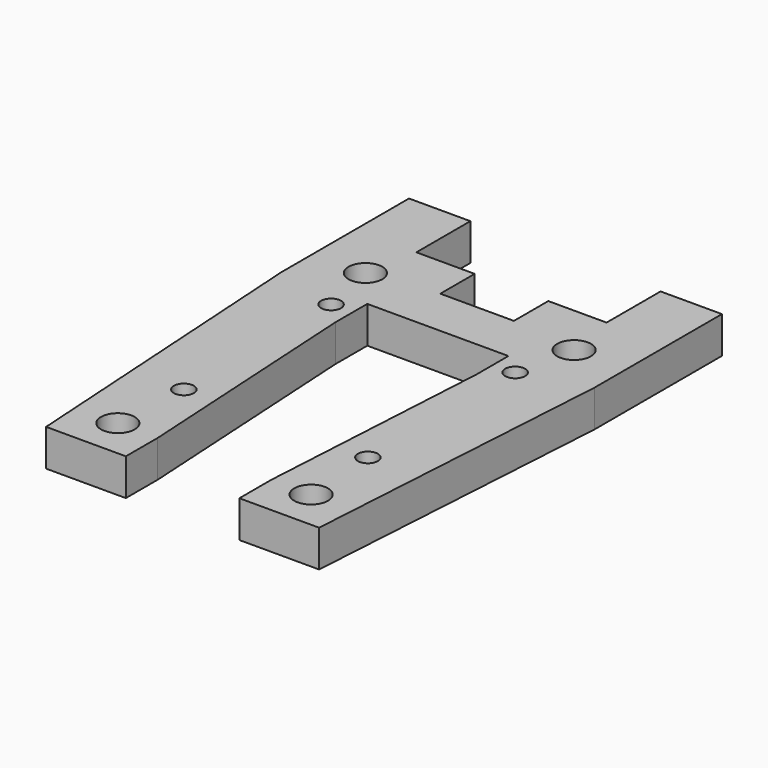
from build123d import *

# Parameters (mm, degrees)
F0_R     = 2.75
F0_R_2   = 1.625
F1_DEPTH = 6


with BuildPart() as f1:
    # F0 (on Top) → F1 (new body)
    with BuildSketch(Plane.XY):
        Polygon((-6, 15), (-15.5, 15), (-15.5, 26), (-25.5, 26), (-25.5, 15), (-25.5, 0), (-22.25, -52), (-9.25, -52), (-9.25, -45.5), (-11.5, -6.5), (-11.5, 0), (11.5, 0), (11.5, -6.5), (9.25, -45.5), (9.25, -52), (22.25, -52), (25.5, 0), (25.5, 15), (25.5, 26), (15.5, 26), (15.5, 15), (6, 15), (6, 8), (-6, 8), align=None)
        with Locations((-15.75, -45.5)):
            Circle(F0_R, mode=Mode.SUBTRACT)
        with Locations((-15, -33)):
            Circle(F0_R_2, mode=Mode.SUBTRACT)
        with Locations((15.75, -45.5)):
            Circle(F0_R, mode=Mode.SUBTRACT)
        with Locations((15, -33)):
            Circle(F0_R_2, mode=Mode.SUBTRACT)
        with Locations((-15, -3)):
            Circle(F0_R_2, mode=Mode.SUBTRACT)
        with Locations((-17, 6.5)):
            Circle(F0_R, mode=Mode.SUBTRACT)
        with Locations((15, -3)):
            Circle(F0_R_2, mode=Mode.SUBTRACT)
        with Locations((17, 6.5)):
            Circle(F0_R, mode=Mode.SUBTRACT)
    extrude(amount=F1_DEPTH)


solid = f1.part
